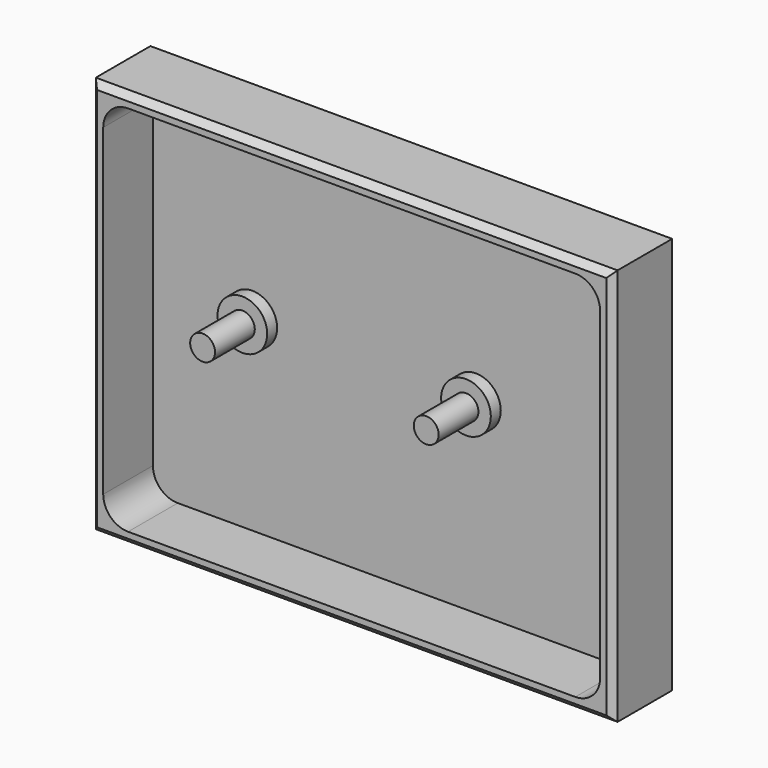
from build123d import *

# Parameters (mm, degrees)
F0_W     = 133.35
F0_H     = 101.6
F1_DEPTH = 19.05
F2_T     = -3.175
F3_R     = 6.35
F4_DEPTH = 3.175
F5_R     = 3.175
F6_DEPTH = 12.7
F7_R     = 3.175
F8_DEPTH = 12.7
F9_R     = 6.35
F10_SIZE = 1.6002


with BuildPart() as f1:
    # F0 (on Front) → F1 (new body)
    with BuildSketch(Plane.XZ):
        with Locations((66.675, -50.8)):
            Rectangle(F0_W, F0_H)
    extrude(amount=F1_DEPTH)

    # F2
    f2_openings = [f1.faces().sort_by_distance(p)[0] for p in [
        (66.675, -19.05, -50.8),
    ]]
    offset(amount=F2_T, openings=f2_openings)

    # F3 (on face) → F4 (join)
    with BuildSketch(Plane.XZ.offset(3.175)):
        with Locations((28.575, -50.8)):
            Circle(F3_R)
        with Locations((85.725, -50.8)):
            Circle(F3_R)
    extrude(amount=F4_DEPTH)

    # F5 (on face) → F6 (join)
    with BuildSketch(Plane.XZ.offset(6.35)):
        with Locations((28.575, -50.8)):
            Circle(F5_R)
    extrude(amount=F6_DEPTH)

    # F7 (on face) → F8 (join)
    with BuildSketch(Plane.XZ.offset(6.35)):
        with Locations((85.725, -50.8)):
            Circle(F7_R)
    extrude(amount=F8_DEPTH)

    # F9
    f9_edges = [f1.edges().sort_by_distance(p)[0] for p in [
        (3.175, -11.1125, -3.175),
        (130.175, -11.1125, -3.175),
        (3.175, -11.1125, -98.425),
        (130.175, -11.1125, -98.425),
    ]]
    fillet(f9_edges, radius=F9_R)

    # F10
    f10_edges = [f1.edges().sort_by_distance(p)[0] for p in [
        (66.675, -19.05, -101.6),
        (133.35, -19.05, -50.8),
        (66.675, -19.05, 0),
        (0, -19.05, -50.8),
    ]]
    chamfer(f10_edges, length=F10_SIZE)


solid = f1.part
